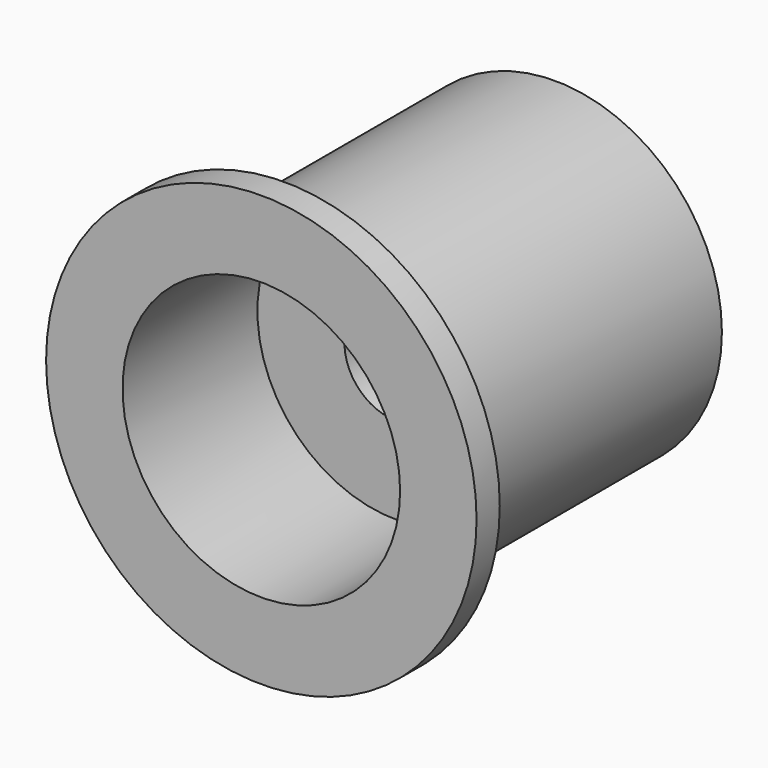
from build123d import *

# Parameters (mm, degrees)
F0_R     = 274.5
F1_DEPTH = 468
F2_R     = 66
F3_DEPTH = 468
F4_R     = 177
F4_R_2   = 66
F5_DEPTH = 215
F6_R     = 274.5
F6_R_2   = 213
F7_DEPTH = 431


with BuildPart() as f1:
    # F0 (on Front) → F1 (new body)
    with BuildSketch(Plane.XZ):
        Circle(F0_R)
    extrude(amount=F1_DEPTH)

    # F2 (on face) → F3 (cut)
    with BuildSketch(Plane.XZ.offset(468)):
        Circle(F2_R)
    extrude(amount=-F3_DEPTH, mode=Mode.SUBTRACT)

    # F4 (on face) → F5 (cut)
    with BuildSketch(Plane.XZ.offset(468)):
        Circle(F4_R)
        Circle(F4_R_2, mode=Mode.SUBTRACT)
    extrude(amount=-F5_DEPTH, mode=Mode.SUBTRACT)

    # F6 (on face) → F7 (cut)
    with BuildSketch(Plane(origin=(0, 0, 0), x_dir=(-1, 0, 0), z_dir=(0, 1, 0))):
        Circle(F6_R)
        Circle(F6_R_2, mode=Mode.SUBTRACT)
    extrude(amount=-F7_DEPTH, mode=Mode.SUBTRACT)


solid = f1.part
